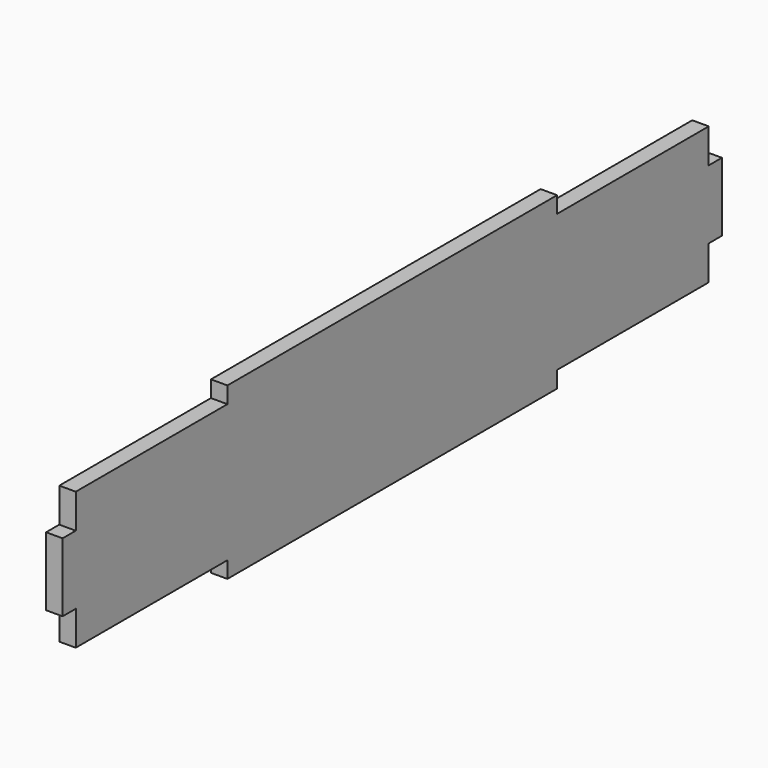
from build123d import *

# Parameters (mm, degrees)
F0_W     = 150
F0_H     = 6
F0_W_2   = 6
F0_H_2   = 25
F1_DEPTH = 6


with BuildPart() as f1:
    # F0 (on Right) → F1 (new body)
    with BuildSketch(Plane.YZ):
        Polygon((-75, 25), (-144, 25), (-144, 12.5), (-138, 12.5), (-138, -12.5), (-144, -12.5), (-144, -25), (-75, -25), (-75, -19), (75, -19), (75, -25), (144, -25), (144, -12.5), (138, -12.5), (138, 12.5), (144, 12.5), (144, 25), (75, 25), (75, 19), (-75, 19), align=None)
        with Locations((0, 28)):
            Rectangle(F0_W, F0_H)
        with Locations((0, 22)):
            Rectangle(F0_W, F0_H)
        with Locations((0, -28)):
            Rectangle(F0_W, F0_H)
        with Locations((0, -22)):
            Rectangle(F0_W, F0_H)
        with Locations((-141, 0)):
            Rectangle(F0_W_2, F0_H_2)
        with Locations((-147, 0)):
            Rectangle(F0_W_2, F0_H_2)
        with Locations((147, 0)):
            Rectangle(F0_W_2, F0_H_2)
        with Locations((141, 0)):
            Rectangle(F0_W_2, F0_H_2)
    extrude(amount=F1_DEPTH)


solid = f1.part
